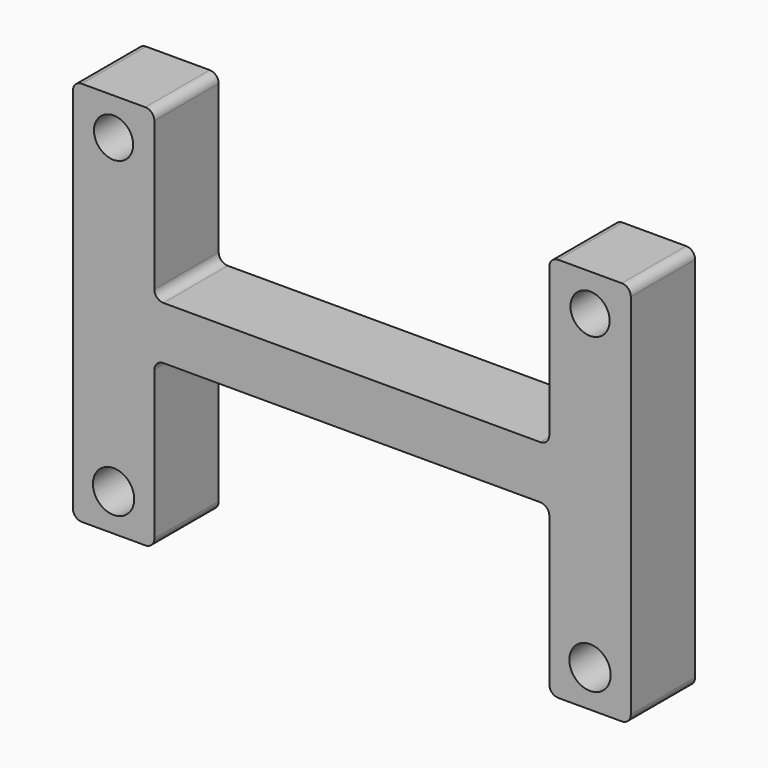
from build123d import *

# Parameters (mm, degrees)
F0_R     = 1.95
F0_R_2   = 1.85
F1_DEPTH = 7.6


with BuildPart() as f1:
    # F0 (on Front) → F1 (new body)
    with BuildSketch(Plane.XZ):
        with BuildLine():
            Line((-26.34914, 35.58314), (-26.34914, 0.84914))
            ThreePointArc((-26.34914, 0.84914), (-26.100433, 0.248707), (-25.5, 0))
            Line((-25.5, 0), (-19.5, 0))
            ThreePointArc((-19.5, 0), (-18.899567, 0.248707), (-18.65086, 0.84914))
            Line((-18.65086, 0.84914), (-18.65086, 14.867))
            ThreePointArc((-18.65086, 14.867), (-18.402152, 15.467433), (-17.801719, 15.71614))
            Line((-17.801719, 15.71614), (17.801719, 15.71614))
            ThreePointArc((17.801719, 15.71614), (18.402152, 15.467433), (18.65086, 14.867))
            Line((18.65086, 14.867), (18.65086, 0.84914))
            ThreePointArc((18.65086, 0.84914), (18.899567, 0.248707), (19.5, 0))
            Line((19.5, 0), (25.5, 0))
            ThreePointArc((25.5, 0), (26.100433, 0.248707), (26.34914, 0.84914))
            Line((26.34914, 0.84914), (26.34914, 35.58314))
            ThreePointArc((26.34914, 35.58314), (26.100433, 36.183573), (25.5, 36.432281))
            Line((25.5, 36.432281), (19.5, 36.432281))
            ThreePointArc((19.5, 36.432281), (18.899567, 36.183573), (18.65086, 35.58314))
            Line((18.65086, 35.58314), (18.65086, 21.565281))
            ThreePointArc((18.65086, 21.565281), (18.402152, 20.964848), (17.801719, 20.71614))
            Line((17.801719, 20.71614), (-17.801719, 20.71614))
            ThreePointArc((-17.801719, 20.71614), (-18.402152, 20.964848), (-18.65086, 21.565281))
            Line((-18.65086, 21.565281), (-18.65086, 35.58314))
            ThreePointArc((-18.65086, 35.58314), (-18.899567, 36.183573), (-19.5, 36.432281))
            Line((-19.5, 36.432281), (-25.5, 36.432281))
            ThreePointArc((-25.5, 36.432281), (-26.100433, 36.183573), (-26.34914, 35.58314))
        make_face()
        with Locations((-22.5, 3.506199)):
            Circle(F0_R, mode=Mode.SUBTRACT)
        with Locations((22.5, 3.506199)):
            Circle(F0_R, mode=Mode.SUBTRACT)
        with Locations((-22.5, 32.926639)):
            Circle(F0_R_2, mode=Mode.SUBTRACT)
        with Locations((22.5, 32.926639)):
            Circle(F0_R_2, mode=Mode.SUBTRACT)
    extrude(amount=F1_DEPTH)


solid = f1.part
